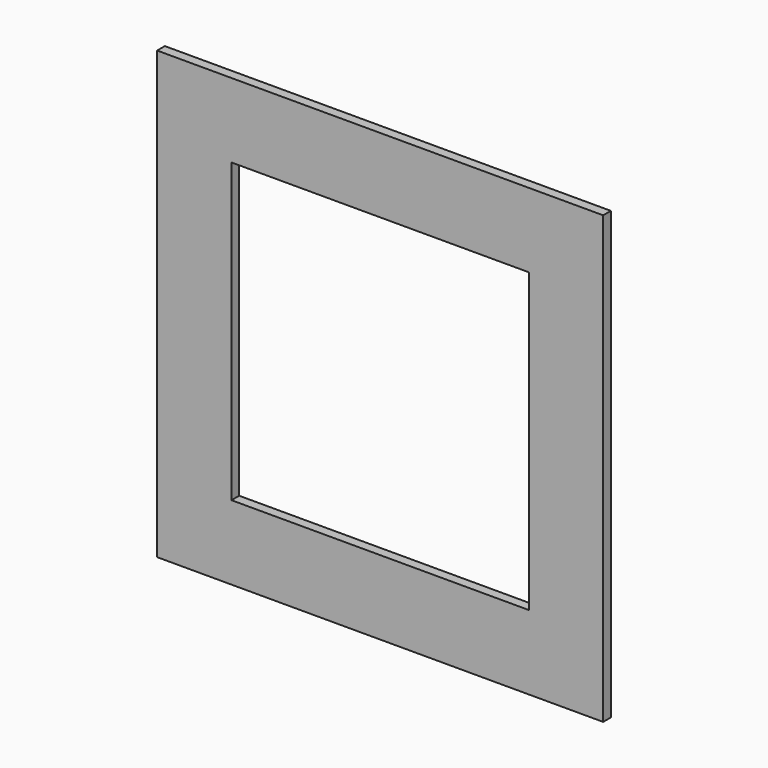
from build123d import *

# Parameters (mm, degrees)
F1_W     = 600
F1_H     = 600
F1_W_2   = 400
F1_H_2   = 400
F2_DEPTH = 13


with BuildPart() as f2:
    # F1 (on face) → F2 (new body)
    with BuildSketch(Plane.XZ):
        with Locations((-365.936714, 266.967404)):
            Rectangle(F1_W, F1_H)
        with Locations((-365.936714, 266.967404)):
            Rectangle(F1_W_2, F1_H_2, mode=Mode.SUBTRACT)
    extrude(amount=F2_DEPTH)


solid = f2.part
